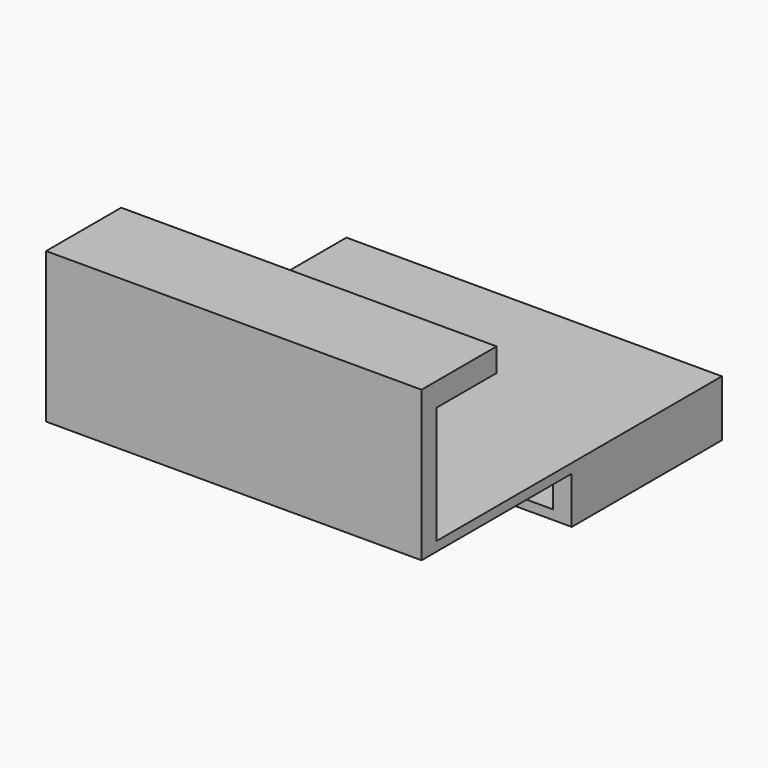
from build123d import *

# Parameters (mm, degrees)
F0_W     = 4
F0_H     = 2
F0_H_2   = 8
F1_DEPTH = 40
F2_DEPTH = 80
F4_DEPTH = 80
F5_DEPTH = 4
F6_W     = 12
F6_H     = 20
F7_DEPTH = 25


with BuildPart() as f1:
    # F0 (on Front) → F1 (new body)
    with BuildSketch(Plane.XZ):
        with Locations((-78, -11)):
            Rectangle(F0_W, F0_H)
        with Locations((-74, -11)):
            Rectangle(F0_W, F0_H)
        with Locations((-70, -11)):
            Rectangle(F0_W, F0_H)
        with Locations((-66, -11)):
            Rectangle(F0_W, F0_H)
        with Locations((-62, -11)):
            Rectangle(F0_W, F0_H)
        with Locations((-58, -11)):
            Rectangle(F0_W, F0_H)
        with Locations((-54, -11)):
            Rectangle(F0_W, F0_H)
        with Locations((-50, -11)):
            Rectangle(F0_W, F0_H)
        with Locations((-46, -11)):
            Rectangle(F0_W, F0_H)
        with Locations((-42, -11)):
            Rectangle(F0_W, F0_H)
        with Locations((-38, -11)):
            Rectangle(F0_W, F0_H)
        with Locations((-34, -11)):
            Rectangle(F0_W, F0_H)
        with Locations((-30, -11)):
            Rectangle(F0_W, F0_H)
        with Locations((-26, -11)):
            Rectangle(F0_W, F0_H)
        with Locations((-22, -11)):
            Rectangle(F0_W, F0_H)
        with Locations((-18, -11)):
            Rectangle(F0_W, F0_H)
        with Locations((-14, -11)):
            Rectangle(F0_W, F0_H)
        with Locations((-10, -11)):
            Rectangle(F0_W, F0_H)
        with Locations((-6, -11)):
            Rectangle(F0_W, F0_H)
        with Locations((-2, -11)):
            Rectangle(F0_W, F0_H)
        with Locations((-78, -6)):
            Rectangle(F0_W, F0_H_2)
        with Locations((-2, -6)):
            Rectangle(F0_W, F0_H_2)
    extrude(amount=F1_DEPTH)

    # F0 (on Front) → F2 (join)
    with BuildSketch(Plane.XZ):
        with Locations((-78, -1)):
            Rectangle(F0_W, F0_H)
        with Locations((-70, -1)):
            Rectangle(F0_W, F0_H)
        with Locations((-74, -1)):
            Rectangle(F0_W, F0_H)
        with Locations((-66, -1)):
            Rectangle(F0_W, F0_H)
        with Locations((-62, -1)):
            Rectangle(F0_W, F0_H)
        with Locations((-58, -1)):
            Rectangle(F0_W, F0_H)
        with Locations((-54, -1)):
            Rectangle(F0_W, F0_H)
        with Locations((-50, -1)):
            Rectangle(F0_W, F0_H)
        with Locations((-46, -1)):
            Rectangle(F0_W, F0_H)
        with Locations((-42, -1)):
            Rectangle(F0_W, F0_H)
        with Locations((-38, -1)):
            Rectangle(F0_W, F0_H)
        with Locations((-34, -1)):
            Rectangle(F0_W, F0_H)
        with Locations((-30, -1)):
            Rectangle(F0_W, F0_H)
        with Locations((-26, -1)):
            Rectangle(F0_W, F0_H)
        with Locations((-22, -1)):
            Rectangle(F0_W, F0_H)
        with Locations((-18, -1)):
            Rectangle(F0_W, F0_H)
        with Locations((-14, -1)):
            Rectangle(F0_W, F0_H)
        with Locations((-6, -1)):
            Rectangle(F0_W, F0_H)
        with Locations((-2, -1)):
            Rectangle(F0_W, F0_H)
        with Locations((-10, -1)):
            Rectangle(F0_W, F0_H)
    extrude(amount=F2_DEPTH)

    # F3 (on Right) → F4 (join)
    with BuildSketch(Plane.YZ):
        Polygon((-80, 30), (-80, 0), (-76, 0), (-76, 25), (-60, 25), (-60, 30), align=None)
    extrude(amount=-F4_DEPTH)

    # F0 (on Front) → F5 (join)
    with BuildSketch(Plane.XZ):
        with Locations((-70, -6)):
            Rectangle(F0_W, F0_H_2)
        with Locations((-54, -6)):
            Rectangle(F0_W, F0_H_2)
        with Locations((-46, -6)):
            Rectangle(F0_W, F0_H_2)
        with Locations((-38, -6)):
            Rectangle(F0_W, F0_H_2)
        with Locations((-30, -6)):
            Rectangle(F0_W, F0_H_2)
        with Locations((-10, -6)):
            Rectangle(F0_W, F0_H_2)
    extrude(amount=F5_DEPTH)

    # F6 (on face) → F7 (cut)
    with BuildSketch(Plane(origin=(0, 0, -2), x_dir=(1, 0, 0), z_dir=(0, 0, -1))):
        Polygon((-68, 28.3951728637), (-72, 28.3951728637), (-72, 8.3951728637), (-60, 8.3951728637), (-60, 12.3951728637), (-68, 12.3951728637), align=None)
        with Locations((-18, 18.3951728637)):
            Rectangle(F6_W, F6_H)
        Polygon((-52, 28.3951728637), (-56, 28.3951728637), (-56, 18.3951728637), (-48, 18.3951728637), (-48, 12.3951728637), (-56, 12.3951728637), (-56, 8.3951728637), (-44, 8.3951728637), (-44, 28.3951728637), (-48, 28.3951728637), (-48, 22.3951728637), (-52, 22.3951728637), align=None)
        Polygon((-28, 28.3951728637), (-40, 28.3951728637), (-40, 8.3951728637), (-36, 8.3951728637), (-36.0326175784, 14.3950842042), (-32, 14.3950842042), (-32, 8.3951728637), (-28, 8.3951728637), (-28, 14.3951728637), (-31.9809810322, 18.7847752528), (-28, 22.3951728637), align=None)
    extrude(amount=F7_DEPTH, mode=Mode.SUBTRACT)


solid = f1.part
